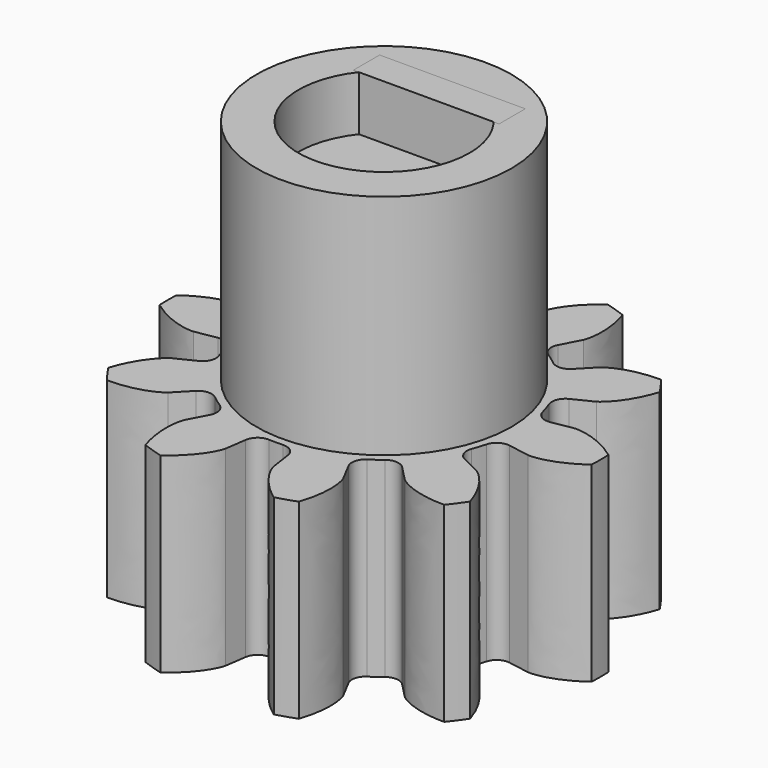
from build123d import *

# Parameters (mm, degrees)
SKETCH_R      = 6.4
PAD_DEPTH     = 20
EXTRUDE_DEPTH = 10.5
TUBE_R        = 5
TUBE_R_2      = 4
TUBE_DEPTH    = 20
SKETCH001_R   = 5
PAD001_DEPTH  = 20
TUBE001_R     = 7
TUBE001_R_2   = 4.7
TUBE001_DEPTH = 23
SKETCH002_W   = 8
SKETCH002_H   = 1.8
PAD002_DEPTH  = 23


with BuildPart() as body:
    # Sketch → Pad (new body)
    with BuildSketch(Plane.XY):
        Circle(SKETCH_R)
    extrude(amount=PAD_DEPTH)


with BuildPart() as body001:
    # InvoluteGear → Extrude (new body)
    with BuildSketch(Plane.XY):
        with BuildLine():
            Line((8.013685, -1.391977), (9.195102, -1.595588))
            add(Edge.make_bspline(
                [(9.195102, -1.595588), (9.326885, -1.603396), (9.855178, -1.616432), (10.793669, -1.369445), (11.865746, -0.578105)],
                knots=[0, 0, 0, 0, 0, 1, 1, 1, 1, 1], degree=4))
            ThreePointArc((11.865746, -0.578105), (11.879821, 0), (11.865746, 0.578105))
            add(Edge.make_bspline(
                [(11.865746, 0.578105), (10.793669, 1.369445), (9.855178, 1.616432), (9.326885, 1.603396), (9.195102, 1.595588)],
                knots=[0, 0, 0, 0, 0, 1, 1, 1, 1, 1], degree=4))
            Line((9.195102, 1.595588), (8.013685, 1.391977))
            ThreePointArc((8.013685, 1.391977), (7.488425, 1.49682), (7.170374, 1.927788))
            ThreePointArc((7.170374, 1.927788), (7.061595, 2.294451), (6.934079, 2.655027))
            ThreePointArc((6.934079, 2.655027), (6.938072, 3.190633), (7.301391, 3.584193))
            Line((7.301391, 3.584193), (8.376857, 4.113887))
            add(Edge.make_bspline(
                [(8.376857, 4.113887), (8.488061, 4.185031), (8.923121, 4.485007), (9.537201, 5.236455), (9.939392, 6.506814)],
                knots=[0, 0, 0, 0, 0, 1, 1, 1, 1, 1], degree=4))
            ThreePointArc((9.939392, 6.506814), (9.610977, 6.982783), (9.259789, 7.442208))
            add(Edge.make_bspline(
                [(9.259789, 7.442208), (7.927322, 7.452264), (7.022892, 7.100449), (6.603156, 6.77938), (6.50113, 6.695603)],
                knots=[0, 0, 0, 0, 0, 1, 1, 1, 1, 1], degree=4))
            Line((6.50113, 6.695603), (5.665024, 5.836459))
            ThreePointArc((5.665024, 5.836459), (5.178455, 5.612539), (4.667829, 5.774253))
            ThreePointArc((4.667829, 5.774253), (4.364305, 6.006951), (4.049202, 6.223712))
            ThreePointArc((4.049202, 6.223712), (3.737611, 6.659373), (3.800214, 7.191323))
            Line((3.800214, 7.191323), (4.358937, 8.251998))
            add(Edge.make_bspline(
                [(4.358937, 8.251998), (4.407086, 8.374918), (4.582736, 8.873326), (4.637847, 9.842207), (4.216528, 11.106351)],
                knots=[0, 0, 0, 0, 0, 1, 1, 1, 1, 1], degree=4))
            ThreePointArc((4.216528, 11.106351), (3.671066, 11.298381), (3.116906, 11.46364))
            add(Edge.make_bspline(
                [(3.116906, 11.46364), (2.033007, 10.688571), (1.508099, 9.872336), (1.357246, 9.365871), (1.323948, 9.238125)],
                knots=[0, 0, 0, 0, 0, 1, 1, 1, 1, 1], degree=4))
            Line((1.323948, 9.238125), (1.152516, 8.051612))
            ThreePointArc((1.152516, 8.051612), (0.89049, 7.584459), (0.382332, 7.41515))
            ThreePointArc((0.382332, 7.41515), (0, 7.425), (-0.382332, 7.41515))
            ThreePointArc((-0.382332, 7.41515), (-0.89049, 7.584459), (-1.152516, 8.051612))
            Line((-1.152516, 8.051612), (-1.323948, 9.238125))
            add(Edge.make_bspline(
                [(-1.323948, 9.238125), (-1.357246, 9.365871), (-1.508099, 9.872336), (-2.033007, 10.688571), (-3.116906, 11.46364)],
                knots=[0, 0, 0, 0, 0, 1, 1, 1, 1, 1], degree=4))
            ThreePointArc((-3.116906, 11.46364), (-3.671066, 11.298381), (-4.216528, 11.106351))
            add(Edge.make_bspline(
                [(-4.216528, 11.106351), (-4.637847, 9.842207), (-4.582736, 8.873326), (-4.407086, 8.374918), (-4.358937, 8.251998)],
                knots=[0, 0, 0, 0, 0, 1, 1, 1, 1, 1], degree=4))
            Line((-4.358937, 8.251998), (-3.800214, 7.191323))
            ThreePointArc((-3.800214, 7.191323), (-3.737611, 6.659373), (-4.049202, 6.223712))
            ThreePointArc((-4.049202, 6.223712), (-4.364305, 6.006951), (-4.667829, 5.774253))
            ThreePointArc((-4.667829, 5.774253), (-5.178455, 5.612539), (-5.665024, 5.836459))
            Line((-5.665024, 5.836459), (-6.50113, 6.695603))
            add(Edge.make_bspline(
                [(-6.50113, 6.695603), (-6.603156, 6.77938), (-7.022892, 7.100449), (-7.927322, 7.452264), (-9.259789, 7.442208)],
                knots=[0, 0, 0, 0, 0, 1, 1, 1, 1, 1], degree=4))
            ThreePointArc((-9.259789, 7.442208), (-9.610977, 6.982783), (-9.939392, 6.506814))
            add(Edge.make_bspline(
                [(-9.939392, 6.506814), (-9.537201, 5.236455), (-8.923121, 4.485007), (-8.488061, 4.185031), (-8.376857, 4.113887)],
                knots=[0, 0, 0, 0, 0, 1, 1, 1, 1, 1], degree=4))
            Line((-8.376857, 4.113887), (-7.301391, 3.584193))
            ThreePointArc((-7.301391, 3.584193), (-6.938072, 3.190633), (-6.934079, 2.655027))
            ThreePointArc((-6.934079, 2.655027), (-7.061595, 2.294451), (-7.170374, 1.927788))
            ThreePointArc((-7.170374, 1.927788), (-7.488425, 1.49682), (-8.013685, 1.391977))
            Line((-8.013685, 1.391977), (-9.195102, 1.595588))
            add(Edge.make_bspline(
                [(-9.195102, 1.595588), (-9.326885, 1.603396), (-9.855178, 1.616432), (-10.793669, 1.369445), (-11.865746, 0.578105)],
                knots=[0, 0, 0, 0, 0, 1, 1, 1, 1, 1], degree=4))
            ThreePointArc((-11.865746, 0.578105), (-11.879821, 0), (-11.865746, -0.578105))
            add(Edge.make_bspline(
                [(-11.865746, -0.578105), (-10.793669, -1.369445), (-9.855178, -1.616432), (-9.326885, -1.603396), (-9.195102, -1.595588)],
                knots=[0, 0, 0, 0, 0, 1, 1, 1, 1, 1], degree=4))
            Line((-9.195102, -1.595588), (-8.013685, -1.391977))
            ThreePointArc((-8.013685, -1.391977), (-7.488425, -1.49682), (-7.170374, -1.927788))
            ThreePointArc((-7.170374, -1.927788), (-7.061595, -2.294451), (-6.934079, -2.655027))
            ThreePointArc((-6.934079, -2.655027), (-6.938072, -3.190633), (-7.301391, -3.584193))
            Line((-7.301391, -3.584193), (-8.376857, -4.113887))
            add(Edge.make_bspline(
                [(-8.376857, -4.113887), (-8.488061, -4.185031), (-8.923121, -4.485007), (-9.537201, -5.236455), (-9.939392, -6.506814)],
                knots=[0, 0, 0, 0, 0, 1, 1, 1, 1, 1], degree=4))
            ThreePointArc((-9.939392, -6.506814), (-9.610977, -6.982783), (-9.259789, -7.442208))
            add(Edge.make_bspline(
                [(-9.259789, -7.442208), (-7.927322, -7.452264), (-7.022892, -7.100449), (-6.603156, -6.77938), (-6.50113, -6.695603)],
                knots=[0, 0, 0, 0, 0, 1, 1, 1, 1, 1], degree=4))
            Line((-6.50113, -6.695603), (-5.665024, -5.836459))
            ThreePointArc((-5.665024, -5.836459), (-5.178455, -5.612539), (-4.667829, -5.774253))
            ThreePointArc((-4.667829, -5.774253), (-4.364305, -6.006951), (-4.049202, -6.223712))
            ThreePointArc((-4.049202, -6.223712), (-3.737611, -6.659373), (-3.800214, -7.191323))
            Line((-3.800214, -7.191323), (-4.358937, -8.251998))
            add(Edge.make_bspline(
                [(-4.358937, -8.251998), (-4.407086, -8.374918), (-4.582736, -8.873326), (-4.637847, -9.842207), (-4.216528, -11.106351)],
                knots=[0, 0, 0, 0, 0, 1, 1, 1, 1, 1], degree=4))
            ThreePointArc((-4.216528, -11.106351), (-3.671066, -11.298381), (-3.116906, -11.46364))
            add(Edge.make_bspline(
                [(-3.116906, -11.46364), (-2.033007, -10.688571), (-1.508099, -9.872336), (-1.357246, -9.365871), (-1.323948, -9.238125)],
                knots=[0, 0, 0, 0, 0, 1, 1, 1, 1, 1], degree=4))
            Line((-1.323948, -9.238125), (-1.152516, -8.051612))
            ThreePointArc((-1.152516, -8.051612), (-0.89049, -7.584459), (-0.382332, -7.41515))
            ThreePointArc((-0.382332, -7.41515), (0, -7.425), (0.382332, -7.41515))
            ThreePointArc((0.382332, -7.41515), (0.89049, -7.584459), (1.152516, -8.051612))
            Line((1.152516, -8.051612), (1.323948, -9.238125))
            add(Edge.make_bspline(
                [(1.323948, -9.238125), (1.357246, -9.365871), (1.508099, -9.872336), (2.033007, -10.688571), (3.116906, -11.46364)],
                knots=[0, 0, 0, 0, 0, 1, 1, 1, 1, 1], degree=4))
            ThreePointArc((3.116906, -11.46364), (3.671066, -11.298381), (4.216528, -11.106351))
            add(Edge.make_bspline(
                [(4.216528, -11.106351), (4.637847, -9.842207), (4.582736, -8.873326), (4.407086, -8.374918), (4.358937, -8.251998)],
                knots=[0, 0, 0, 0, 0, 1, 1, 1, 1, 1], degree=4))
            Line((4.358937, -8.251998), (3.800214, -7.191323))
            ThreePointArc((3.800214, -7.191323), (3.737611, -6.659373), (4.049202, -6.223712))
            ThreePointArc((4.049202, -6.223712), (4.364305, -6.006951), (4.667829, -5.774253))
            ThreePointArc((4.667829, -5.774253), (5.178455, -5.612539), (5.665024, -5.836459))
            Line((5.665024, -5.836459), (6.50113, -6.695603))
            add(Edge.make_bspline(
                [(6.50113, -6.695603), (6.603156, -6.77938), (7.022892, -7.100449), (7.927322, -7.452264), (9.259789, -7.442208)],
                knots=[0, 0, 0, 0, 0, 1, 1, 1, 1, 1], degree=4))
            ThreePointArc((9.259789, -7.442208), (9.610977, -6.982783), (9.939392, -6.506814))
            add(Edge.make_bspline(
                [(9.939392, -6.506814), (9.537201, -5.236455), (8.923121, -4.485007), (8.488061, -4.185031), (8.376857, -4.113887)],
                knots=[0, 0, 0, 0, 0, 1, 1, 1, 1, 1], degree=4))
            Line((8.376857, -4.113887), (7.301391, -3.584193))
            ThreePointArc((7.301391, -3.584193), (6.938072, -3.190633), (6.934079, -2.655027))
            ThreePointArc((6.934079, -2.655027), (7.061595, -2.294451), (7.170374, -1.927788))
            ThreePointArc((7.170374, -1.927788), (7.488425, -1.49682), (8.013685, -1.391977))
        make_face()
    extrude(amount=EXTRUDE_DEPTH)

    # Boolean: cut Body
    add(body.part, mode=Mode.SUBTRACT)


with BuildPart() as tube:
    # Tube → Tube (new body)
    with BuildSketch(Plane.XY):
        Circle(TUBE_R)
        Circle(TUBE_R_2, mode=Mode.SUBTRACT)
    extrude(amount=TUBE_DEPTH)


with BuildPart() as body002:
    # Sketch001 → Pad001 (new body)
    with BuildSketch(Plane.XY):
        Circle(SKETCH001_R)
    extrude(amount=PAD001_DEPTH)


with BuildPart() as tube001:
    # Tube001 → Tube001 (new body)
    with BuildSketch(Plane.XY):
        Circle(TUBE001_R)
        Circle(TUBE001_R_2, mode=Mode.SUBTRACT)
    extrude(amount=TUBE001_DEPTH)


with BuildPart() as body003:
    # Sketch002 → Pad002 (new body)
    with BuildSketch(Plane.XY):
        with Locations((4, 0.9)):
            Rectangle(SKETCH002_W, SKETCH002_H)
    extrude(amount=PAD002_DEPTH)


with BuildPart() as body003_1:
    # Body003 placement: moved
    add(body003.part.moved(Location((-4, 2.9, 0))))


solid = Compound([body001.part, tube.part, body002.part, tube001.part, body003_1.part])
